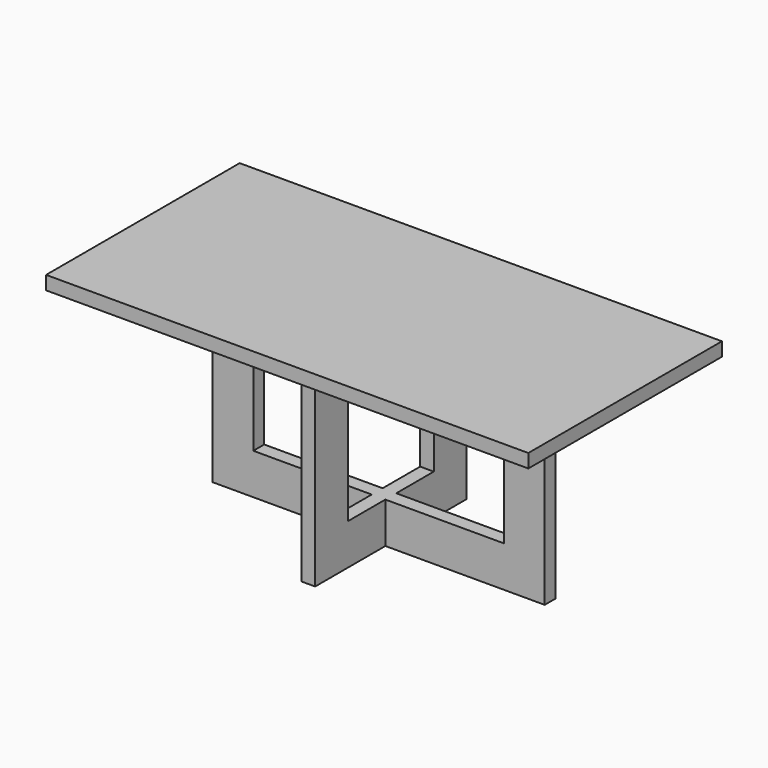
from build123d import *

# Parameters (mm, degrees)
F0_W     = 1797.05
F0_H     = 901.7
F1_DEPTH = 50.8
F2_W     = 152.4
F2_H     = 50.8
F5_W     = 50.8
F5_H     = 152.4


with BuildPart() as f1:
    # F0 (on Top) → F1 (new body)
    with BuildSketch(Plane.XY):
        Rectangle(F0_W, F0_H)
    extrude(amount=F1_DEPTH)

    # F4: sweep along a path in F3
    with BuildLine(Plane.XZ) as f4_path:
        Line((542.925, 0), (542.925, -635))
        Line((542.925, -635), (-542.925, -635))
        Line((-542.925, -635), (-542.925, 0))
    # F2 (on face) → F4 (sweep)
    with BuildSketch(Plane(origin=(0, 0, 0), x_dir=(1, 0, 0), z_dir=(0, 0, -1))):
        with Locations((542.925, 0)):
            Rectangle(F2_W, F2_H)
    sweep(path=f4_path.line, transition=Transition.RIGHT)

    # F7: sweep along a path in F6
    with BuildLine(Plane.YZ) as f7_path:
        Line((-276.225, 0), (-276.225, -635))
        Line((-276.225, -635), (276.225, -635))
        Line((276.225, -635), (276.225, 0))
    # F5 (on face) → F7 (sweep)
    with BuildSketch(Plane(origin=(0, 0, 0), x_dir=(1, 0, 0), z_dir=(0, 0, -1))):
        with Locations((0, 276.225)):
            Rectangle(F5_W, F5_H)
    sweep(path=f7_path.line, transition=Transition.RIGHT)


solid = f1.part
